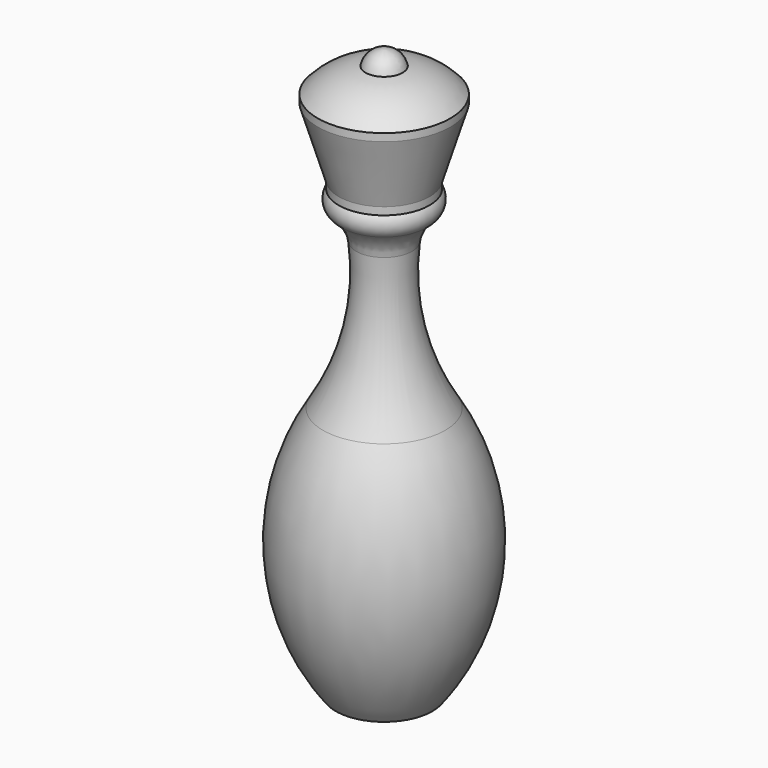
from build123d import *

# Parameters (mm, degrees)
F2_R = 5


with BuildPart() as f1:
    # F0 (on Front) → F1 (revolve)
    with BuildSketch(Plane.XZ):
        with BuildLine():
            Line((8.75309, -6.27), (8.75309, -5.27))
            ThreePointArc((8.75309, -5.27), (5.901334, -3.056613), (2.4495, -2))
            ThreePointArc((2.4495, -2), (1.581145, -0.563505), (0, 0))
            Line((0, 0), (0, -75))
            Line((0, -75), (6.396, -75))
            ThreePointArc((6.396, -75), (12.463041, -58.655056), (8.073716, -41.782))
            ThreePointArc((8.073716, -41.782), (3.940852, -30.984325), (4.19819, -19.4256))
            ThreePointArc((4.19819, -19.4256), (6.10548, -18.425812), (6, -16.27495))
            Line((6, -16.27495), (6, -15.27495))
            Line((6, -15.27495), (8.75309, -6.27))
        make_face()
    revolve(axis=Axis((0, 0, -37.5), (0, 0, 1)))

    # F2
    f2_edges = [f1.edges().sort_by_distance(p)[0] for p in [
        (-4.19819, 0, -19.4256),
    ]]
    fillet(f2_edges, radius=F2_R)


solid = f1.part
